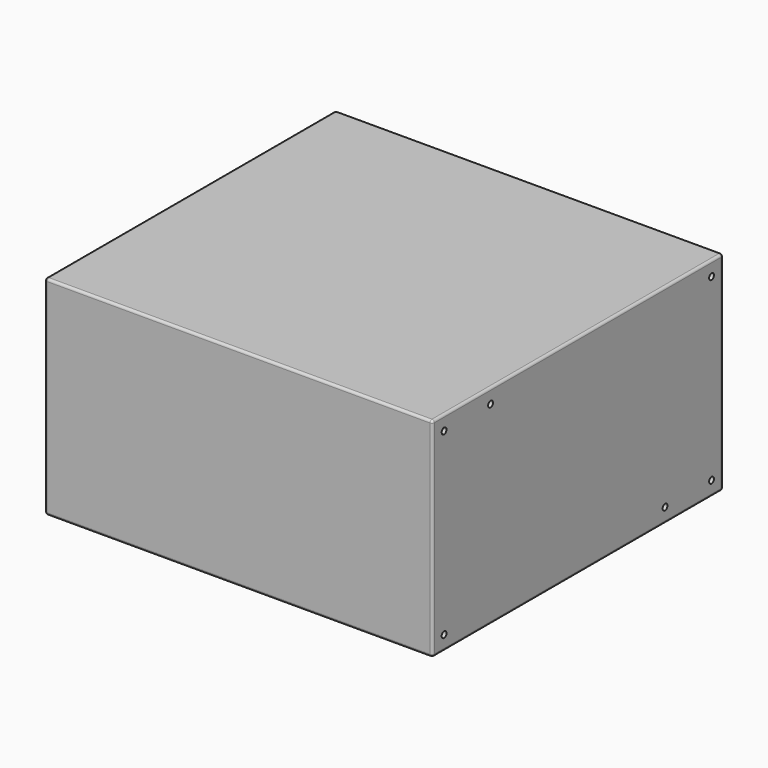
from build123d import *

# Parameters (mm, degrees)
F0_W     = 160
F0_H     = 150
F1_DEPTH = 86
F2_R     = 1.25
F3_DEPTH = 6
F4_R     = 1


with BuildPart() as f1:
    # F0 (on Top) → F1 (new body)
    with BuildSketch(Plane.XY):
        with Locations((80, 75)):
            Rectangle(F0_W, F0_H)
    extrude(amount=F1_DEPTH)

    # F2 (on face) → F3 (cut)
    with BuildSketch(Plane.YZ.offset(160)):
        with Locations((6, 80)):
            Circle(F2_R)
        with Locations((30, 80)):
            Circle(F2_R)
        with Locations((144, 80)):
            Circle(F2_R)
        with Locations((144, 6)):
            Circle(F2_R)
        with Locations((6, 6)):
            Circle(F2_R)
        with Locations((120, 6)):
            Circle(F2_R)
    extrude(amount=-F3_DEPTH, mode=Mode.SUBTRACT)

    # F4
    f4_edges = [f1.edges().sort_by_distance(p)[0] for p in [
        (160, 75, 86),
        (80, 0, 86),
        (160, 0, 43),
        (80, 150, 86),
        (0, 75, 86),
        (80, 0, 0),
        (0, 0, 43),
        (160, 75, 0),
        (160, 150, 43),
        (80, 150, 0),
        (0, 75, 0),
        (0, 150, 43),
    ]]
    fillet(f4_edges, radius=F4_R)


solid = f1.part
